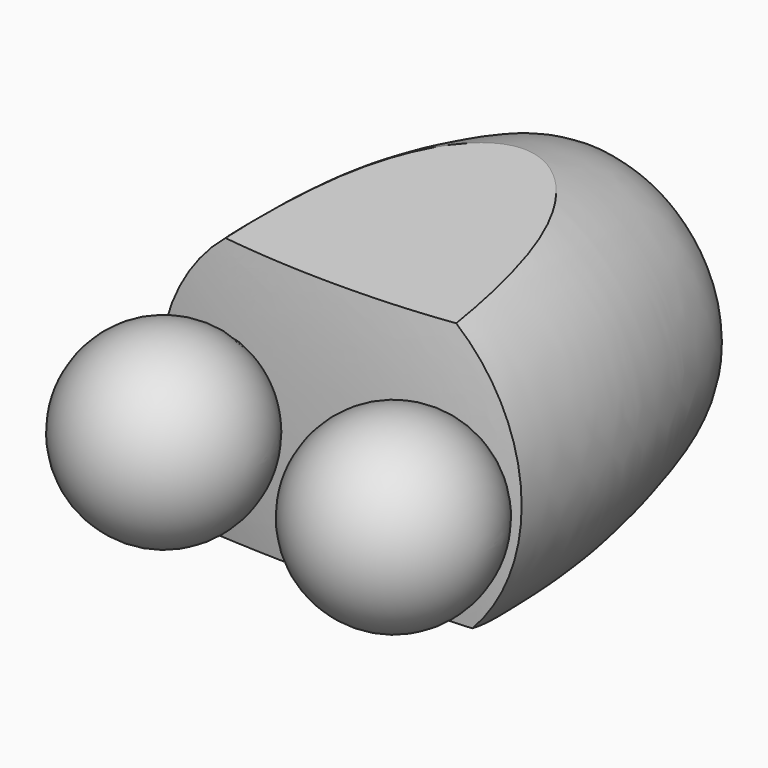
from build123d import *

# Parameters (mm, degrees)
FILLET085_R          = 6
POCKET030_DEPTH      = 135.001
POCKET030_DEPTH_BACK = 135.001
POCKET031_DEPTH      = 135.001
POCKET031_DEPTH_BACK = 135.001


with BuildPart() as part:
    # Sketch170 → Revolution088 (revolve)
    with BuildSketch(Plane.XY):
        with BuildLine():
            Line((0, -29.430492), (0, -256.067871))
            add(Edge.make_bspline(
                [(118.087006, -247.149109), (78.943573, -254.209778), (41.881203, -256.067871), (0, -256.067871)],
                knots=[0, 0, 0, 0, 1, 1, 1, 1], degree=3))
            add(Edge.make_bspline(
                [(0, -29.430492), (51.371703, -29.430492), (85.484656, -26.492154), (104.24503, -87.257226), (119.255189, -159.347806), (118.910339, -227.073486), (118.087006, -247.149109)],
                knots=[0, 0, 0, 0, 0.25, 0.5, 0.75, 1, 1, 1, 1], degree=3))
        make_face()
    revolve(axis=Axis((0, 0, 0), (0, 1, 0)))

    # Sketch171 → Groove082 (revolve, cut)
    with BuildSketch(Plane.XY):
        with BuildLine():
            Line((0, 75), (0, -75))
            ThreePointArc((0, -75), (75, 0), (0, 75))
        make_face()
    revolve(axis=Axis((0, 0, 0), (0, 1, 0)), mode=Mode.SUBTRACT)

    # Fillet085
    fillet085_edges = [part.edges().sort_by_distance(p)[0] for p in [
        (-67.994287, -31.650859, 0),
    ]]
    fillet(fillet085_edges, radius=FILLET085_R)

    # Sketch172 → Groove083 (revolve, cut)
    with BuildSketch(Plane.XY):
        with BuildLine():
            Line((15, -298), (135, -298))
            ThreePointArc((135, -298), (75, -238), (15, -298))
        make_face()
        with BuildLine():
            Line((-135, -298), (-15, -298))
            ThreePointArc((-15, -298), (-75, -238), (-135, -298))
        make_face()
    revolve(axis=Axis((15, -298, 0), (1, 0, 0)), mode=Mode.SUBTRACT)

    # Sketch172 → Revolution089 (revolve)
    with BuildSketch(Plane.XY):
        with BuildLine():
            Line((15, -298), (135, -298))
            ThreePointArc((135, -298), (75, -238), (15, -298))
        make_face()
        with BuildLine():
            Line((-135, -298), (-15, -298))
            ThreePointArc((-15, -298), (-75, -238), (-135, -298))
        make_face()
    revolve(axis=Axis((15, -298, 0), (1, 0, 0)))

    # Sketch173 → Pocket030 (cut, two sides)
    with BuildSketch(Plane.YZ) as pocket030_sk:
        Polygon((-309.733459, 84.757393), (-36.255981, 111.745285), (-36.255981, 192.709015), (-309.733459, 192.709015), align=None)
    extrude(amount=-POCKET030_DEPTH, mode=Mode.SUBTRACT)
    extrude(pocket030_sk.sketch, amount=POCKET030_DEPTH_BACK, mode=Mode.SUBTRACT)

    # Sketch174 → Pocket031 (cut, two sides)
    with BuildSketch(Plane.YZ) as pocket031_sk:
        Polygon((-276.336304, -71.472351), (-109.323242, -126.410881), (-109.323242, -220.905121), (-276.336304, -220.905121), align=None)
    extrude(amount=-POCKET031_DEPTH, mode=Mode.SUBTRACT)
    extrude(pocket031_sk.sketch, amount=POCKET031_DEPTH_BACK, mode=Mode.SUBTRACT)


with BuildPart() as part_1:
    # Body051 placement: moved
    add(part.part.moved(Location((0, 1197.018312, 0.388141))))


solid = part_1.part
